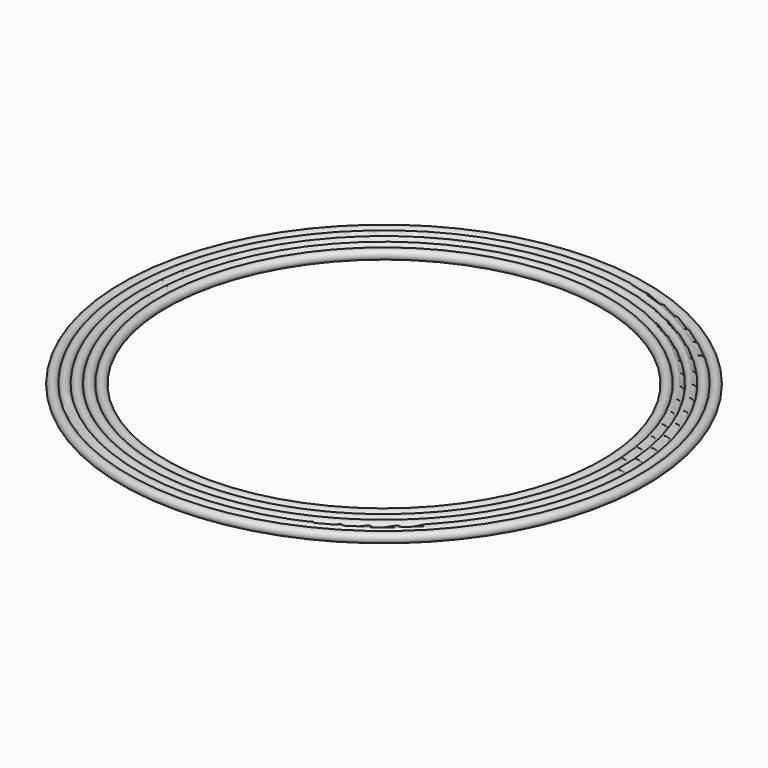
from build123d import *

# Parameters (mm, degrees)
F0_R = 0.635


with BuildPart() as f1:
    # F0 (on Right) → F1 (revolve)
    with BuildSketch(Plane.YZ):
        with Locations((29.21, 0)):
            Circle(F0_R)
        with BuildLine():
            ThreePointArc((34.925, 0), (34.29, 0.635), (33.655, 0))
            ThreePointArc((33.655, 0), (34.29, -0.635), (34.925, 0))
        make_face()
        with BuildLine():
            ThreePointArc((33.655, 0), (33.02, 0.635), (32.385, 0))
            ThreePointArc((32.385, 0), (33.02, -0.635), (33.655, 0))
        make_face()
        with BuildLine():
            ThreePointArc((32.385, 0), (31.75, 0.635), (31.115, 0))
            ThreePointArc((31.115, 0), (31.75, -0.635), (32.385, 0))
        make_face()
        with BuildLine():
            ThreePointArc((31.115, 0), (30.48, 0.635), (29.845, 0))
            ThreePointArc((29.845, 0), (30.48, -0.635), (31.115, 0))
        make_face()
    revolve(axis=Axis((0, 0, 0.687714), (0, 0, 1)))


solid = f1.part
